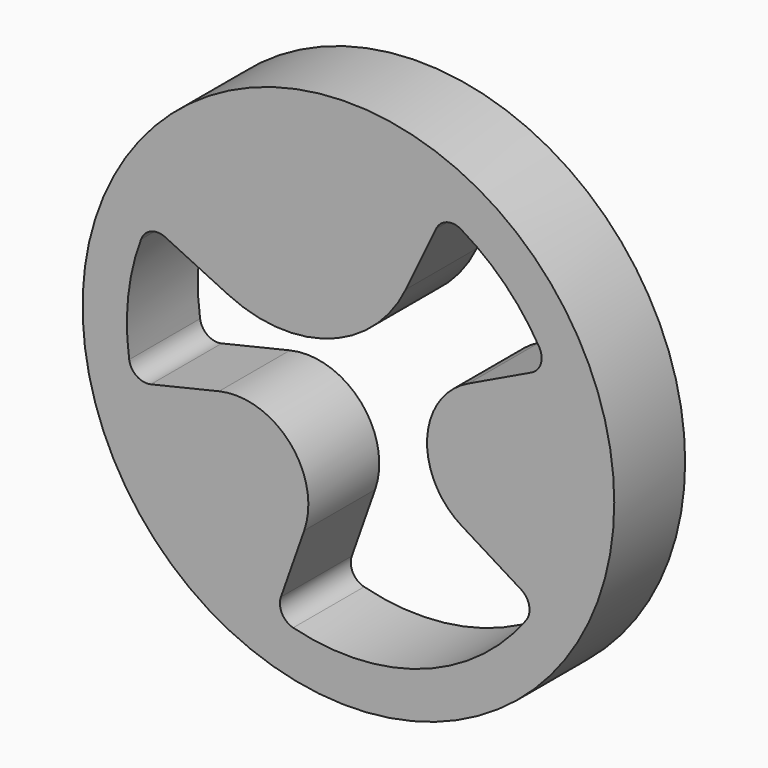
from build123d import *

# Parameters (mm, degrees)
F0_R     = 76.2
F1_DEPTH = 25.4
F3_DEPTH = 25.4


with BuildPart() as f1:
    # F0 (on Front) → F1 (new body)
    with BuildSketch(Plane.XZ):
        Circle(F0_R)
    extrude(amount=F1_DEPTH)

    # F2 (on face) → F3 (cut)
    with BuildSketch(Plane.XZ.offset(25.4)):
        with BuildLine():
            ThreePointArc((16.450121, 34.365732), (-5.247361, 14.883619), (-34.365732, 16.450121))
            Line((-34.365732, 16.450121), (-52.494522, 25.127975))
            ThreePointArc((-52.494522, 25.127975), (-56.583872, 25.258794), (-59.443339, 22.332475))
            ThreePointArc((-59.443339, 22.332475), (-63.133498, 6.812595), (-62.839166, -9.137244))
            ThreePointArc((-62.839166, -9.137244), (-60.6698, -12.606212), (-56.64668, -13.350792))
            Line((-56.64668, -13.350792), (-37.083957, -8.740145))
            ThreePointArc((-37.083957, -8.740145), (-16.812801, -15.096171), (-12.66825, -35.932234))
            Line((-12.66825, -35.932234), (-19.351072, -54.887394))
            ThreePointArc((-19.351072, -54.887394), (-19.04241, -58.967176), (-15.826203, -61.496189))
            ThreePointArc((-15.826203, -61.496189), (21.11375, -59.887057), (50.895007, -37.972993))
            ThreePointArc((50.895007, -37.972993), (51.813965, -33.986089), (49.495687, -30.614816))
            Line((49.495687, -30.614816), (32.402533, -20.042102))
            ThreePointArc((32.402533, -20.042102), (22.56305, -1.213841), (34.365732, 16.450121))
            Line((34.365732, 16.450121), (52.494522, 25.127975))
            ThreePointArc((52.494522, 25.127975), (55.161107, 28.231073), (54.675188, 32.293557))
            ThreePointArc((54.675188, 32.293557), (44.901281, 44.901281), (32.293557, 54.675188))
            ThreePointArc((32.293557, 54.675188), (28.231073, 55.161107), (25.127975, 52.494522))
            Line((25.127975, 52.494522), (16.450121, 34.365732))
        make_face()
    extrude(amount=-F3_DEPTH, mode=Mode.SUBTRACT)


solid = f1.part
